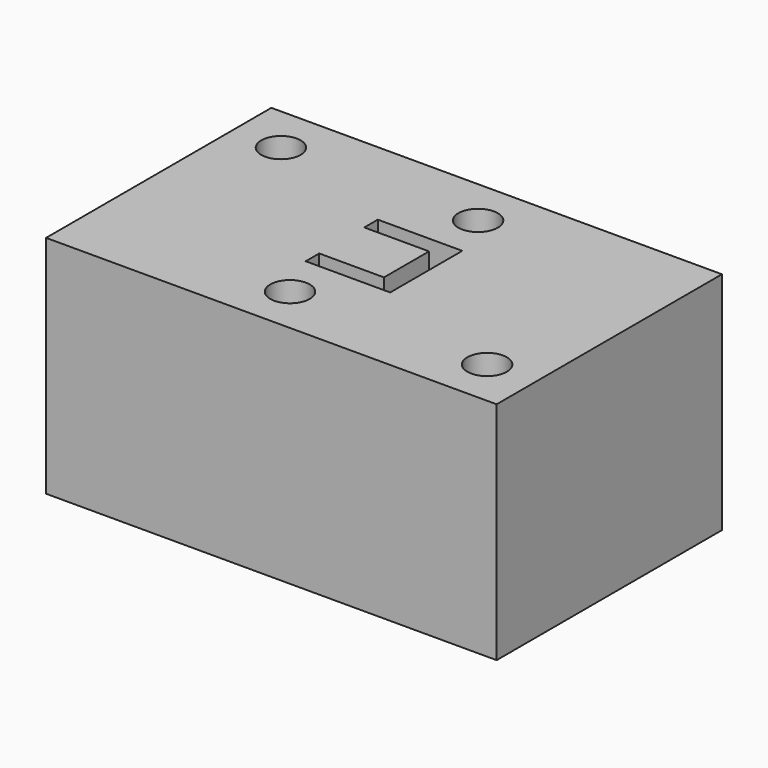
from build123d import *

# Parameters (mm, degrees)
SKETCH001_W = 40
SKETCH001_H = 25
SKETCH001_R = 1.75
PAD_DEPTH   = 20


with BuildPart() as part:
    # Sketch001 → Pad (new body)
    with BuildSketch(Plane.XY.offset(5)):
        Rectangle(SKETCH001_W, SKETCH001_H)
        with Locations((-1.746173, -8.246033)):
            Circle(SKETCH001_R, mode=Mode.SUBTRACT)
        with Locations((1.752117, 8.249296)):
            Circle(SKETCH001_R, mode=Mode.SUBTRACT)
        with Locations((15.75151, -8.249899)):
            Circle(SKETCH001_R, mode=Mode.SUBTRACT)
        with Locations((-15.749744, 8.249736)):
            Circle(SKETCH001_R, mode=Mode.SUBTRACT)
        Polygon((3.75, -4), (3.75, 4), (-3.75, 4), (-3.75, 2.5), (2, 2.5), (2, -2.5), (-3.75, -2.5), (-3.75, -4), align=None, mode=Mode.SUBTRACT)
    extrude(amount=PAD_DEPTH)


solid = part.part
